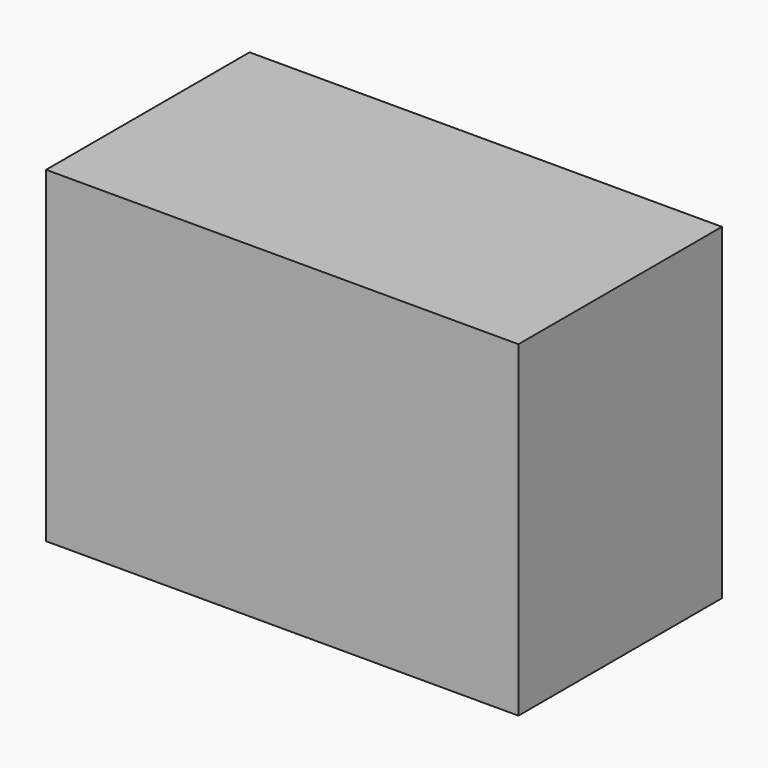
from build123d import *

# Parameters (mm, degrees)
BOX_W     = 91
BOX_H     = 49
BOX_DEPTH = 63


with BuildPart() as part:
    # Box → Box (join)
    with BuildSketch(Plane(origin=(0, -24.5, 0), x_dir=(1, 0, 0), z_dir=(0, 0, 1))):
        with Locations((45.5, 24.5)):
            Rectangle(BOX_W, BOX_H)
    extrude(amount=BOX_DEPTH)


solid = part.part
